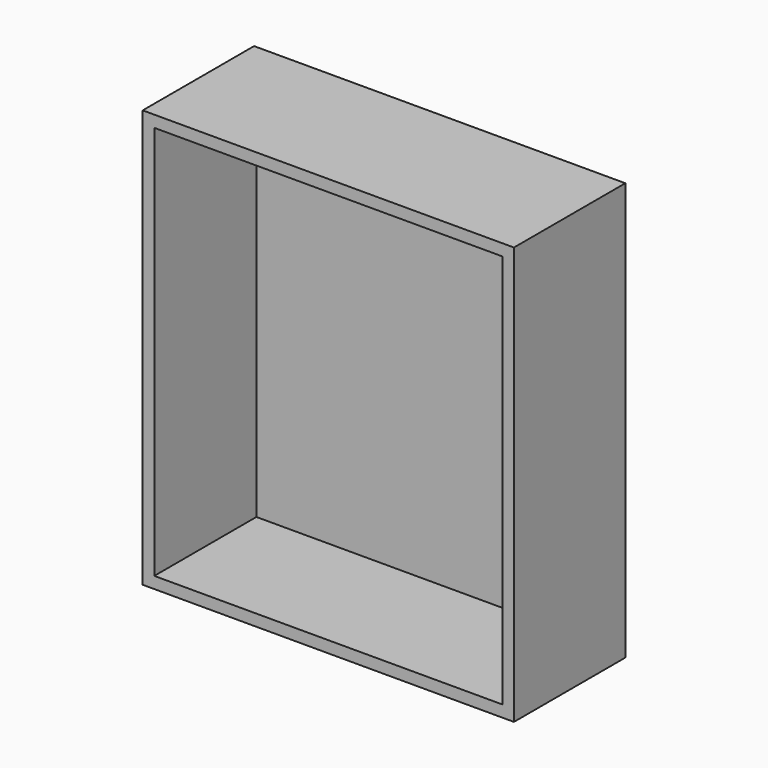
from build123d import *

# Parameters (mm, degrees)
F0_W     = 203.2
F0_H     = 228.6
F0_W_2   = 190.5
F0_H_2   = 215.9
F1_DEPTH = 76.2
F2_DEPTH = 76.2
F3_DEPTH = 69.85


with BuildPart() as f1:
    # F0 (on Front) → F1 (new body)
    with BuildSketch(Plane.XZ):
        Rectangle(F0_W, F0_H)
        Rectangle(F0_W_2, F0_H_2, mode=Mode.SUBTRACT)
    extrude(amount=-F1_DEPTH)

    # F0 (on Front) → F2 (join)
    with BuildSketch(Plane.XZ):
        Rectangle(F0_W_2, F0_H_2)
    extrude(amount=-F2_DEPTH)

    # F0 (on Front) → F3 (cut)
    with BuildSketch(Plane.XZ):
        Rectangle(F0_W_2, F0_H_2)
    extrude(amount=-F3_DEPTH, mode=Mode.SUBTRACT)


solid = f1.part
